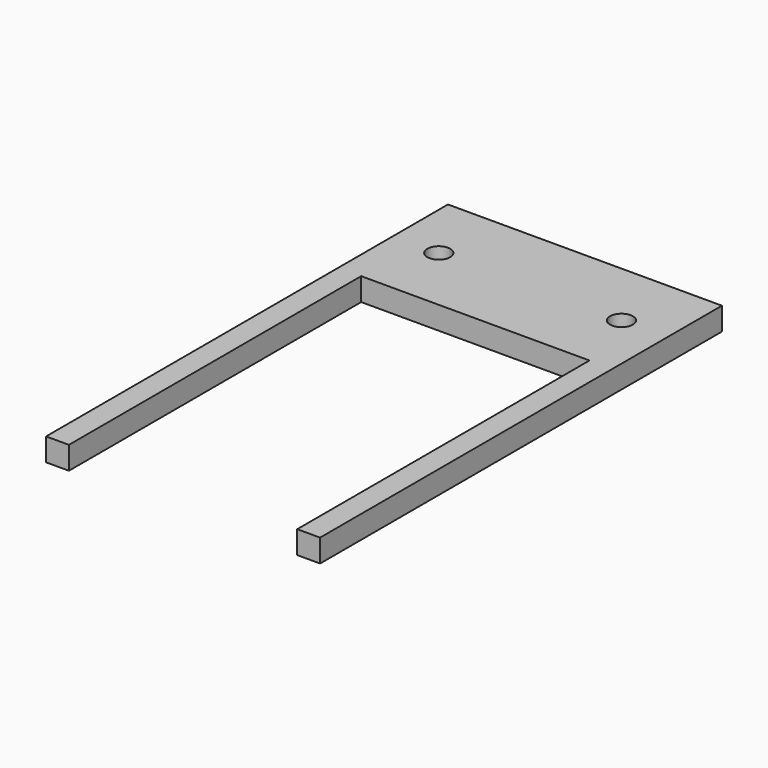
from build123d import *

# Parameters (mm, degrees)
F0_R     = 2.5
F0_W     = 5
F0_H     = 80
F1_DEPTH = 5


with BuildPart() as f1:
    # F0 (on Top) → F1 (new body)
    with BuildSketch(Plane.XY):
        Polygon((30, -15), (30, 15), (-30, 15), (-30, -15), (-25, -15), (25, -15), align=None)
        with Locations((-20, 0)):
            Circle(F0_R, mode=Mode.SUBTRACT)
        with Locations((20, 0)):
            Circle(F0_R, mode=Mode.SUBTRACT)
        with Locations((27.5, -55)):
            Rectangle(F0_W, F0_H)
        with Locations((-27.5, -55)):
            Rectangle(F0_W, F0_H)
    extrude(amount=F1_DEPTH)


solid = f1.part
